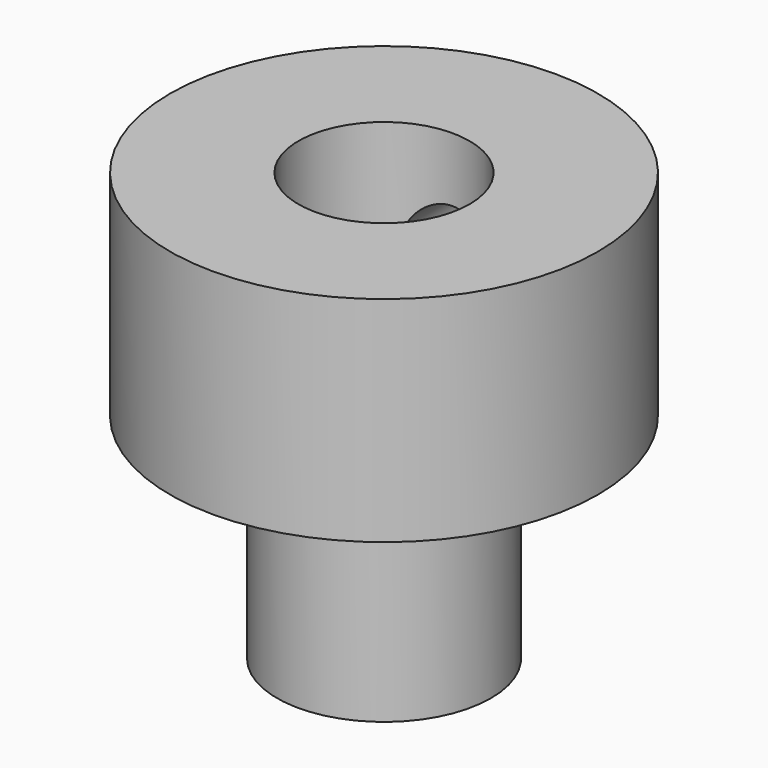
from build123d import *

# Parameters (mm, degrees)
F0_R     = 20
F0_R_2   = 8
F1_DEPTH = 20
F2_R     = 10
F2_R_2   = 8
F3_DEPTH = 20
F4_R     = 4
F5_DEPTH = 25


with BuildPart() as f1:
    # F0 (on Top) → F1 (new body)
    with BuildSketch(Plane.XY):
        Circle(F0_R)
        Circle(F0_R_2, mode=Mode.SUBTRACT)
    extrude(amount=F1_DEPTH)

    # F2 (on face) → F3 (join)
    with BuildSketch(Plane(origin=(0, 0, 0), x_dir=(1, 0, 0), z_dir=(0, 0, -1))):
        Circle(F2_R)
        Circle(F2_R_2, mode=Mode.SUBTRACT)
    extrude(amount=F3_DEPTH)

    # F4 (on Front) → F5 (cut)
    with BuildSketch(Plane.XZ):
        with Locations((0, 10)):
            Circle(F4_R)
    extrude(amount=-F5_DEPTH, mode=Mode.SUBTRACT)


solid = f1.part
